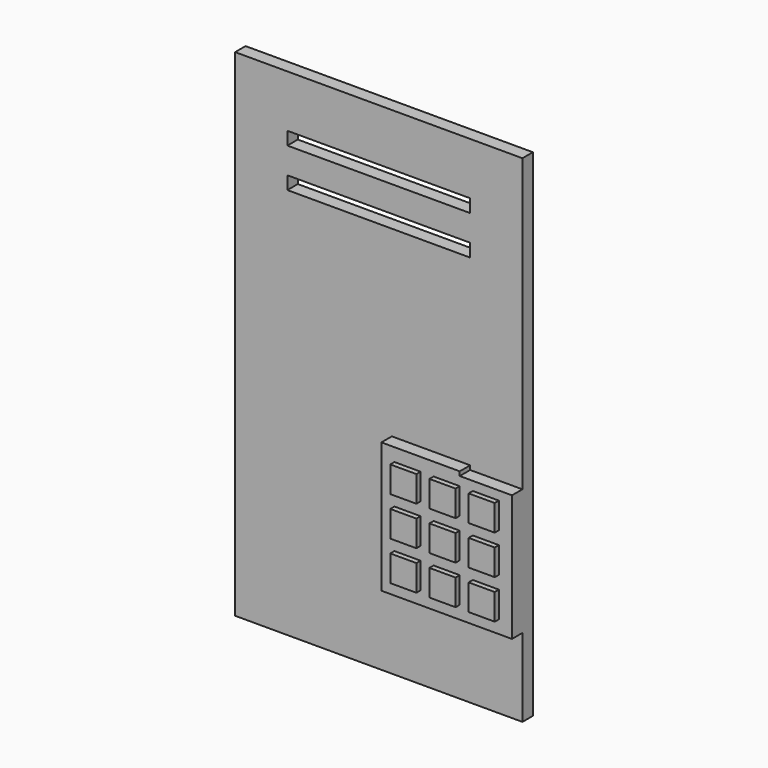
from build123d import *

# Parameters (mm, degrees)
F0_W     = 279.4
F0_H     = 482.6
F1_DEPTH = 12.7
F2_W     = 177.8
F2_H     = 12.7
F3_DEPTH = 25.4
F2_W_2   = 50.8
F2_H_2   = 25.4
F4_DEPTH = 25.4
F5_W     = 12.7
F5_H     = 25.4
F6_DEPTH = 50.8
F7_W     = 25.4
F7_H     = 25.4
F8_DEPTH = 17.78
F9_DEPTH = 12.7


with BuildPart() as f1:
    # F0 (on Front) → F1 (new body)
    with BuildSketch(Plane.XZ):
        with Locations((2.636664, -27.353967)):
            Rectangle(F0_W, F0_H)
    extrude(amount=F1_DEPTH)

    # F2 (on face) → F3 (cut)
    with BuildSketch(Plane.XZ.offset(12.7)):
        with Locations((2.636664, 156.796033)):
            Rectangle(F2_W, F2_H)
        with Locations((2.636664, 118.696033)):
            Rectangle(F2_W, F2_H)
    extrude(amount=-F3_DEPTH, mode=Mode.SUBTRACT)

    # F2 (on face) → F4 (cut)
    with BuildSketch(Plane.XZ.offset(12.7)):
        with Locations((116.936664, -56.788272)):
            Rectangle(F2_W_2, F2_H_2)
    extrude(amount=-F4_DEPTH, mode=Mode.SUBTRACT)

    # F5 (on face) → F6 (join)
    with BuildSketch(Plane.YZ.offset(91.536664)):
        with Locations((-6.35, -56.788272)):
            Rectangle(F5_W, F5_H)
    extrude(amount=F6_DEPTH)

    # F7 (on face) → F8 (join)
    with BuildSketch(Plane.XZ.offset(12.7)):
        with Locations((40.736664, -90.853967)):
            Rectangle(F7_W, F7_H)
        with Locations((78.836664, -90.853967)):
            Rectangle(F7_W, F7_H)
        with Locations((116.936664, -90.853967)):
            Rectangle(F7_W, F7_H)
        with Locations((116.936664, -167.053967)):
            Rectangle(F7_W, F7_H)
        with Locations((78.836664, -167.053967)):
            Rectangle(F7_W, F7_H)
        with Locations((40.736664, -167.053967)):
            Rectangle(F7_W, F7_H)
        with Locations((40.736664, -128.953967)):
            Rectangle(F7_W, F7_H)
        with Locations((78.836664, -128.953967)):
            Rectangle(F7_W, F7_H)
        with Locations((116.936664, -128.953967)):
            Rectangle(F7_W, F7_H)
    extrude(amount=F8_DEPTH)

    # F7 (on face) → F9 (join)
    with BuildSketch(Plane.XZ.offset(12.7)):
        Polygon((15.336664, -192.453967), (142.336664, -192.453967), (142.336664, -69.488272), (91.536664, -69.488272), (91.536664, -65.453967), (15.336664, -65.453967), align=None)
        with Locations((40.736664, -167.053967)):
            Rectangle(F7_W, F7_H, mode=Mode.SUBTRACT)
        with Locations((78.836664, -167.053967)):
            Rectangle(F7_W, F7_H, mode=Mode.SUBTRACT)
        with Locations((116.936664, -167.053967)):
            Rectangle(F7_W, F7_H, mode=Mode.SUBTRACT)
        with Locations((40.736664, -128.953967)):
            Rectangle(F7_W, F7_H, mode=Mode.SUBTRACT)
        with Locations((40.736664, -90.853967)):
            Rectangle(F7_W, F7_H, mode=Mode.SUBTRACT)
        with Locations((78.836664, -128.953967)):
            Rectangle(F7_W, F7_H, mode=Mode.SUBTRACT)
        with Locations((78.836664, -90.853967)):
            Rectangle(F7_W, F7_H, mode=Mode.SUBTRACT)
        with Locations((116.936664, -128.953967)):
            Rectangle(F7_W, F7_H, mode=Mode.SUBTRACT)
        with Locations((116.936664, -90.853967)):
            Rectangle(F7_W, F7_H, mode=Mode.SUBTRACT)
    extrude(amount=F9_DEPTH)


solid = f1.part
